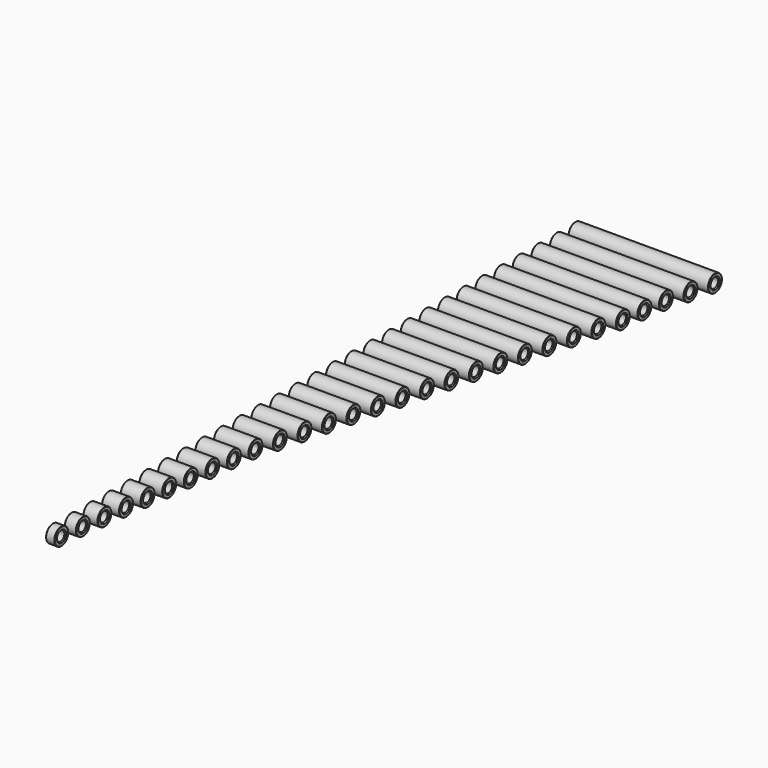
from build123d import *

# Parameters (mm, degrees)
F0_R        = 2.975
F0_R_2      = 1.65
F1_DEPTH    = 3
F2_DEPTH    = 4
F3_DEPTH    = 5
F4_DEPTH    = 6
F5_DEPTH    = 7
F6_DEPTH    = 8
F7_DEPTH    = 9
F8_DEPTH    = 10
F9_DEPTH    = 11
F10_DEPTH   = 12
F11_DEPTH   = 14
F12_DEPTH   = 16
F13_DEPTH   = 18
F14_DEPTH   = 20
F15_DEPTH   = 22
F16_DEPTH   = 24
F17_DEPTH   = 26
F18_DEPTH   = 28
F19_DEPTH   = 30
F20_DEPTH   = 32
F21_DEPTH   = 34
F22_DEPTH   = 36
F23_DEPTH   = 38
F24_DEPTH   = 40
F25_DEPTH   = 42
F26_DEPTH   = 43
F27_DEPTH   = 44
F28_DEPTH   = 46
F29_DEPTH   = 48
F30_SIZE    = 0.35
F30_2_SIZE  = 0.35
F30_3_SIZE  = 0.35
F30_4_SIZE  = 0.35
F30_5_SIZE  = 0.35
F30_6_SIZE  = 0.35
F30_7_SIZE  = 0.35
F30_8_SIZE  = 0.35
F30_9_SIZE  = 0.35
F30_10_SIZE = 0.35
F30_11_SIZE = 0.35
F30_12_SIZE = 0.35
F30_13_SIZE = 0.35
F30_14_SIZE = 0.35
F30_15_SIZE = 0.35
F30_16_SIZE = 0.35
F30_17_SIZE = 0.35
F30_18_SIZE = 0.35
F30_19_SIZE = 0.35
F30_20_SIZE = 0.35
F30_21_SIZE = 0.35
F30_22_SIZE = 0.35
F30_23_SIZE = 0.35
F30_24_SIZE = 0.35
F30_25_SIZE = 0.35
F30_26_SIZE = 0.35
F30_27_SIZE = 0.35
F30_28_SIZE = 0.35
F30_29_SIZE = 0.35
F31_SIZE    = 0.1
F31_2_SIZE  = 0.1
F31_3_SIZE  = 0.1
F31_4_SIZE  = 0.1
F31_5_SIZE  = 0.1
F31_6_SIZE  = 0.1
F31_7_SIZE  = 0.1
F31_8_SIZE  = 0.1
F31_9_SIZE  = 0.1
F31_10_SIZE = 0.1
F31_11_SIZE = 0.1
F31_12_SIZE = 0.1
F31_13_SIZE = 0.1
F31_14_SIZE = 0.1
F31_15_SIZE = 0.1
F31_16_SIZE = 0.1
F31_17_SIZE = 0.1
F31_18_SIZE = 0.1
F31_19_SIZE = 0.1
F31_20_SIZE = 0.1
F31_21_SIZE = 0.1
F31_22_SIZE = 0.1
F31_23_SIZE = 0.1
F31_24_SIZE = 0.1
F31_25_SIZE = 0.1
F31_26_SIZE = 0.1
F31_27_SIZE = 0.1
F31_28_SIZE = 0.1
F31_29_SIZE = 0.1


with BuildPart() as f1:
    # F0 (on Right) → F1 (new body)
    with BuildSketch(Plane.YZ):
        Circle(F0_R)
        Circle(F0_R_2, mode=Mode.SUBTRACT)
    extrude(amount=F1_DEPTH)

    # F30
    f30_edges = [f1.edges().sort_by_distance(p)[0] for p in [
        (3, -1.65, 0),
        (0, -1.65, 0),
    ]]
    chamfer(f30_edges, length=F30_SIZE)

    # F31#29
    f31_29_edges = [f1.edges().sort_by_distance(p)[0] for p in [
        (3, -2.975, 0),
    ]]
    chamfer(f31_29_edges, length=F31_29_SIZE)


with BuildPart() as f2:
    # F0 (on Right) → F2 (new body)
    with BuildSketch(Plane.YZ):
        Circle(F0_R)
        Circle(F0_R_2, mode=Mode.SUBTRACT)
    extrude(amount=F2_DEPTH)

    # F30#2
    f30_2_edges = [f2.edges().sort_by_distance(p)[0] for p in [
        (2, 1.65, 0),
        (0, -1.65, 0),
        (4, -1.65, 0),
    ]]
    chamfer(f30_2_edges, length=F30_2_SIZE)

    # F31#28
    f31_28_edges = [f2.edges().sort_by_distance(p)[0] for p in [
        (4, -2.975, 0),
    ]]
    chamfer(f31_28_edges, length=F31_28_SIZE)


with BuildPart() as f3:
    # F0 (on Right) → F3 (new body)
    with BuildSketch(Plane.YZ):
        Circle(F0_R)
        Circle(F0_R_2, mode=Mode.SUBTRACT)
    extrude(amount=F3_DEPTH)

    # F30#3
    f30_3_edges = [f3.edges().sort_by_distance(p)[0] for p in [
        (0, -1.65, 0),
        (5, -1.65, 0),
    ]]
    chamfer(f30_3_edges, length=F30_3_SIZE)

    # F31#27
    f31_27_edges = [f3.edges().sort_by_distance(p)[0] for p in [
        (5, -2.975, 0),
    ]]
    chamfer(f31_27_edges, length=F31_27_SIZE)


with BuildPart() as f4:
    # F0 (on Right) → F4 (new body)
    with BuildSketch(Plane.YZ):
        Circle(F0_R)
        Circle(F0_R_2, mode=Mode.SUBTRACT)
    extrude(amount=F4_DEPTH)

    # F30#4
    f30_4_edges = [f4.edges().sort_by_distance(p)[0] for p in [
        (0, -1.65, 0),
        (6, -1.65, 0),
    ]]
    chamfer(f30_4_edges, length=F30_4_SIZE)

    # F31#26
    f31_26_edges = [f4.edges().sort_by_distance(p)[0] for p in [
        (6, -2.975, 0),
    ]]
    chamfer(f31_26_edges, length=F31_26_SIZE)


with BuildPart() as f5:
    # F0 (on Right) → F5 (new body)
    with BuildSketch(Plane.YZ):
        Circle(F0_R)
        Circle(F0_R_2, mode=Mode.SUBTRACT)
    extrude(amount=F5_DEPTH)

    # F30#5
    f30_5_edges = [f5.edges().sort_by_distance(p)[0] for p in [
        (0, -1.65, 0),
        (7, -1.65, 0),
    ]]
    chamfer(f30_5_edges, length=F30_5_SIZE)

    # F31#25
    f31_25_edges = [f5.edges().sort_by_distance(p)[0] for p in [
        (7, -2.975, 0),
    ]]
    chamfer(f31_25_edges, length=F31_25_SIZE)


with BuildPart() as f6:
    # F0 (on Right) → F6 (new body)
    with BuildSketch(Plane.YZ):
        Circle(F0_R)
        Circle(F0_R_2, mode=Mode.SUBTRACT)
    extrude(amount=F6_DEPTH)

    # F30#6
    f30_6_edges = [f6.edges().sort_by_distance(p)[0] for p in [
        (0, -1.65, 0),
        (8, -1.65, 0),
    ]]
    chamfer(f30_6_edges, length=F30_6_SIZE)

    # F31#24
    f31_24_edges = [f6.edges().sort_by_distance(p)[0] for p in [
        (8, -2.975, 0),
    ]]
    chamfer(f31_24_edges, length=F31_24_SIZE)


with BuildPart() as f7:
    # F0 (on Right) → F7 (new body)
    with BuildSketch(Plane.YZ):
        Circle(F0_R)
        Circle(F0_R_2, mode=Mode.SUBTRACT)
    extrude(amount=F7_DEPTH)

    # F30#7
    f30_7_edges = [f7.edges().sort_by_distance(p)[0] for p in [
        (0, -1.65, 0),
        (9, -1.65, 0),
    ]]
    chamfer(f30_7_edges, length=F30_7_SIZE)

    # F31#23
    f31_23_edges = [f7.edges().sort_by_distance(p)[0] for p in [
        (9, -2.975, 0),
    ]]
    chamfer(f31_23_edges, length=F31_23_SIZE)


with BuildPart() as f8:
    # F0 (on Right) → F8 (new body)
    with BuildSketch(Plane.YZ):
        Circle(F0_R)
        Circle(F0_R_2, mode=Mode.SUBTRACT)
    extrude(amount=F8_DEPTH)

    # F30#8
    f30_8_edges = [f8.edges().sort_by_distance(p)[0] for p in [
        (0, -1.65, 0),
        (10, -1.65, 0),
    ]]
    chamfer(f30_8_edges, length=F30_8_SIZE)

    # F31#22
    f31_22_edges = [f8.edges().sort_by_distance(p)[0] for p in [
        (10, -2.975, 0),
    ]]
    chamfer(f31_22_edges, length=F31_22_SIZE)


with BuildPart() as f9:
    # F0 (on Right) → F9 (new body)
    with BuildSketch(Plane.YZ):
        Circle(F0_R)
        Circle(F0_R_2, mode=Mode.SUBTRACT)
    extrude(amount=F9_DEPTH)

    # F30#9
    f30_9_edges = [f9.edges().sort_by_distance(p)[0] for p in [
        (0, -1.65, 0),
        (11, -1.65, 0),
    ]]
    chamfer(f30_9_edges, length=F30_9_SIZE)

    # F31#21
    f31_21_edges = [f9.edges().sort_by_distance(p)[0] for p in [
        (11, -2.975, 0),
    ]]
    chamfer(f31_21_edges, length=F31_21_SIZE)


with BuildPart() as f10:
    # F0 (on Right) → F10 (new body)
    with BuildSketch(Plane.YZ):
        Circle(F0_R)
        Circle(F0_R_2, mode=Mode.SUBTRACT)
    extrude(amount=F10_DEPTH)

    # F30#10
    f30_10_edges = [f10.edges().sort_by_distance(p)[0] for p in [
        (0, -1.65, 0),
        (12, -1.65, 0),
    ]]
    chamfer(f30_10_edges, length=F30_10_SIZE)

    # F31#20
    f31_20_edges = [f10.edges().sort_by_distance(p)[0] for p in [
        (12, -2.975, 0),
    ]]
    chamfer(f31_20_edges, length=F31_20_SIZE)


with BuildPart() as f11:
    # F0 (on Right) → F11 (new body)
    with BuildSketch(Plane.YZ):
        Circle(F0_R)
        Circle(F0_R_2, mode=Mode.SUBTRACT)
    extrude(amount=F11_DEPTH)

    # F30#11
    f30_11_edges = [f11.edges().sort_by_distance(p)[0] for p in [
        (0, -1.65, 0),
        (14, -1.65, 0),
    ]]
    chamfer(f30_11_edges, length=F30_11_SIZE)

    # F31#19
    f31_19_edges = [f11.edges().sort_by_distance(p)[0] for p in [
        (14, -2.975, 0),
    ]]
    chamfer(f31_19_edges, length=F31_19_SIZE)


with BuildPart() as f12:
    # F0 (on Right) → F12 (new body)
    with BuildSketch(Plane.YZ):
        Circle(F0_R)
        Circle(F0_R_2, mode=Mode.SUBTRACT)
    extrude(amount=F12_DEPTH)

    # F30#12
    f30_12_edges = [f12.edges().sort_by_distance(p)[0] for p in [
        (0, -1.65, 0),
        (16, -1.65, 0),
    ]]
    chamfer(f30_12_edges, length=F30_12_SIZE)

    # F31#17
    f31_17_edges = [f12.edges().sort_by_distance(p)[0] for p in [
        (16, -2.975, 0),
    ]]
    chamfer(f31_17_edges, length=F31_17_SIZE)


with BuildPart() as f13:
    # F0 (on Right) → F13 (new body)
    with BuildSketch(Plane.YZ):
        Circle(F0_R)
        Circle(F0_R_2, mode=Mode.SUBTRACT)
    extrude(amount=F13_DEPTH)

    # F30#13
    f30_13_edges = [f13.edges().sort_by_distance(p)[0] for p in [
        (0, -1.65, 0),
        (18, -1.65, 0),
    ]]
    chamfer(f30_13_edges, length=F30_13_SIZE)

    # F31#18
    f31_18_edges = [f13.edges().sort_by_distance(p)[0] for p in [
        (18, -2.975, 0),
    ]]
    chamfer(f31_18_edges, length=F31_18_SIZE)


with BuildPart() as f14:
    # F0 (on Right) → F14 (new body)
    with BuildSketch(Plane.YZ):
        Circle(F0_R)
        Circle(F0_R_2, mode=Mode.SUBTRACT)
    extrude(amount=F14_DEPTH)

    # F30#14
    f30_14_edges = [f14.edges().sort_by_distance(p)[0] for p in [
        (0, -1.65, 0),
        (20, -1.65, 0),
    ]]
    chamfer(f30_14_edges, length=F30_14_SIZE)

    # F31#16
    f31_16_edges = [f14.edges().sort_by_distance(p)[0] for p in [
        (20, -2.975, 0),
    ]]
    chamfer(f31_16_edges, length=F31_16_SIZE)


with BuildPart() as f15:
    # F0 (on Right) → F15 (new body)
    with BuildSketch(Plane.YZ):
        Circle(F0_R)
        Circle(F0_R_2, mode=Mode.SUBTRACT)
    extrude(amount=F15_DEPTH)

    # F30#15
    f30_15_edges = [f15.edges().sort_by_distance(p)[0] for p in [
        (0, -1.65, 0),
        (22, -1.65, 0),
    ]]
    chamfer(f30_15_edges, length=F30_15_SIZE)

    # F31#15
    f31_15_edges = [f15.edges().sort_by_distance(p)[0] for p in [
        (22, -2.975, 0),
    ]]
    chamfer(f31_15_edges, length=F31_15_SIZE)


with BuildPart() as f16:
    # F0 (on Right) → F16 (new body)
    with BuildSketch(Plane.YZ):
        Circle(F0_R)
        Circle(F0_R_2, mode=Mode.SUBTRACT)
    extrude(amount=F16_DEPTH)

    # F30#16
    f30_16_edges = [f16.edges().sort_by_distance(p)[0] for p in [
        (0, -1.65, 0),
        (24, -1.65, 0),
    ]]
    chamfer(f30_16_edges, length=F30_16_SIZE)

    # F31#14
    f31_14_edges = [f16.edges().sort_by_distance(p)[0] for p in [
        (24, -2.975, 0),
    ]]
    chamfer(f31_14_edges, length=F31_14_SIZE)


with BuildPart() as f17:
    # F0 (on Right) → F17 (new body)
    with BuildSketch(Plane.YZ):
        Circle(F0_R)
        Circle(F0_R_2, mode=Mode.SUBTRACT)
    extrude(amount=F17_DEPTH)

    # F30#17
    f30_17_edges = [f17.edges().sort_by_distance(p)[0] for p in [
        (0, -1.65, 0),
        (26, -1.65, 0),
    ]]
    chamfer(f30_17_edges, length=F30_17_SIZE)

    # F31#13
    f31_13_edges = [f17.edges().sort_by_distance(p)[0] for p in [
        (26, -2.975, 0),
    ]]
    chamfer(f31_13_edges, length=F31_13_SIZE)


with BuildPart() as f18:
    # F0 (on Right) → F18 (new body)
    with BuildSketch(Plane.YZ):
        Circle(F0_R)
        Circle(F0_R_2, mode=Mode.SUBTRACT)
    extrude(amount=F18_DEPTH)

    # F30#18
    f30_18_edges = [f18.edges().sort_by_distance(p)[0] for p in [
        (0, -1.65, 0),
        (28, -1.65, 0),
    ]]
    chamfer(f30_18_edges, length=F30_18_SIZE)

    # F31#12
    f31_12_edges = [f18.edges().sort_by_distance(p)[0] for p in [
        (28, -2.975, 0),
    ]]
    chamfer(f31_12_edges, length=F31_12_SIZE)


with BuildPart() as f19:
    # F0 (on Right) → F19 (new body)
    with BuildSketch(Plane.YZ):
        Circle(F0_R)
        Circle(F0_R_2, mode=Mode.SUBTRACT)
    extrude(amount=F19_DEPTH)

    # F30#19
    f30_19_edges = [f19.edges().sort_by_distance(p)[0] for p in [
        (0, -1.65, 0),
        (30, -1.65, 0),
    ]]
    chamfer(f30_19_edges, length=F30_19_SIZE)

    # F31#11
    f31_11_edges = [f19.edges().sort_by_distance(p)[0] for p in [
        (30, -2.975, 0),
    ]]
    chamfer(f31_11_edges, length=F31_11_SIZE)


with BuildPart() as f20:
    # F0 (on Right) → F20 (new body)
    with BuildSketch(Plane.YZ):
        Circle(F0_R)
        Circle(F0_R_2, mode=Mode.SUBTRACT)
    extrude(amount=F20_DEPTH)

    # F30#20
    f30_20_edges = [f20.edges().sort_by_distance(p)[0] for p in [
        (0, -1.65, 0),
        (32, -1.65, 0),
    ]]
    chamfer(f30_20_edges, length=F30_20_SIZE)

    # F31#10
    f31_10_edges = [f20.edges().sort_by_distance(p)[0] for p in [
        (32, -2.975, 0),
    ]]
    chamfer(f31_10_edges, length=F31_10_SIZE)


with BuildPart() as f21:
    # F0 (on Right) → F21 (new body)
    with BuildSketch(Plane.YZ):
        Circle(F0_R)
        Circle(F0_R_2, mode=Mode.SUBTRACT)
    extrude(amount=F21_DEPTH)

    # F30#21
    f30_21_edges = [f21.edges().sort_by_distance(p)[0] for p in [
        (0, -1.65, 0),
        (34, -1.65, 0),
    ]]
    chamfer(f30_21_edges, length=F30_21_SIZE)

    # F31#9
    f31_9_edges = [f21.edges().sort_by_distance(p)[0] for p in [
        (34, -2.975, 0),
    ]]
    chamfer(f31_9_edges, length=F31_9_SIZE)


with BuildPart() as f22:
    # F0 (on Right) → F22 (new body)
    with BuildSketch(Plane.YZ):
        Circle(F0_R)
        Circle(F0_R_2, mode=Mode.SUBTRACT)
    extrude(amount=F22_DEPTH)

    # F30#22
    f30_22_edges = [f22.edges().sort_by_distance(p)[0] for p in [
        (0, -1.65, 0),
        (36, -1.65, 0),
    ]]
    chamfer(f30_22_edges, length=F30_22_SIZE)

    # F31#8
    f31_8_edges = [f22.edges().sort_by_distance(p)[0] for p in [
        (36, -2.975, 0),
    ]]
    chamfer(f31_8_edges, length=F31_8_SIZE)


with BuildPart() as f23:
    # F0 (on Right) → F23 (new body)
    with BuildSketch(Plane.YZ):
        Circle(F0_R)
        Circle(F0_R_2, mode=Mode.SUBTRACT)
    extrude(amount=F23_DEPTH)

    # F30#23
    f30_23_edges = [f23.edges().sort_by_distance(p)[0] for p in [
        (0, -1.65, 0),
        (38, -1.65, 0),
    ]]
    chamfer(f30_23_edges, length=F30_23_SIZE)

    # F31#7
    f31_7_edges = [f23.edges().sort_by_distance(p)[0] for p in [
        (38, -2.975, 0),
    ]]
    chamfer(f31_7_edges, length=F31_7_SIZE)


with BuildPart() as f24:
    # F0 (on Right) → F24 (new body)
    with BuildSketch(Plane.YZ):
        Circle(F0_R)
        Circle(F0_R_2, mode=Mode.SUBTRACT)
    extrude(amount=F24_DEPTH)

    # F30#24
    f30_24_edges = [f24.edges().sort_by_distance(p)[0] for p in [
        (0, -1.65, 0),
        (20, 1.65, 0),
        (40, -1.65, 0),
    ]]
    chamfer(f30_24_edges, length=F30_24_SIZE)

    # F31#6
    f31_6_edges = [f24.edges().sort_by_distance(p)[0] for p in [
        (40, -2.975, 0),
        (20, 2.975, 0),
        (0, -2.975, 0),
    ]]
    chamfer(f31_6_edges, length=F31_6_SIZE)


with BuildPart() as f25:
    # F0 (on Right) → F25 (new body)
    with BuildSketch(Plane.YZ):
        Circle(F0_R)
        Circle(F0_R_2, mode=Mode.SUBTRACT)
    extrude(amount=F25_DEPTH)

    # F30#25
    f30_25_edges = [f25.edges().sort_by_distance(p)[0] for p in [
        (0, -1.65, 0),
        (42, -1.65, 0),
    ]]
    chamfer(f30_25_edges, length=F30_25_SIZE)

    # F31#5
    f31_5_edges = [f25.edges().sort_by_distance(p)[0] for p in [
        (42, -2.975, 0),
    ]]
    chamfer(f31_5_edges, length=F31_5_SIZE)


with BuildPart() as f26:
    # F0 (on Right) → F26 (new body)
    with BuildSketch(Plane.YZ):
        Circle(F0_R)
        Circle(F0_R_2, mode=Mode.SUBTRACT)
    extrude(amount=F26_DEPTH)

    # F30#26
    f30_26_edges = [f26.edges().sort_by_distance(p)[0] for p in [
        (0, -1.65, 0),
        (43, -1.65, 0),
    ]]
    chamfer(f30_26_edges, length=F30_26_SIZE)

    # F31#4
    f31_4_edges = [f26.edges().sort_by_distance(p)[0] for p in [
        (43, -2.975, 0),
    ]]
    chamfer(f31_4_edges, length=F31_4_SIZE)


with BuildPart() as f27:
    # F0 (on Right) → F27 (new body)
    with BuildSketch(Plane.YZ):
        Circle(F0_R)
        Circle(F0_R_2, mode=Mode.SUBTRACT)
    extrude(amount=F27_DEPTH)

    # F30#27
    f30_27_edges = [f27.edges().sort_by_distance(p)[0] for p in [
        (0, -1.65, 0),
        (44, -1.65, 0),
    ]]
    chamfer(f30_27_edges, length=F30_27_SIZE)

    # F31#3
    f31_3_edges = [f27.edges().sort_by_distance(p)[0] for p in [
        (44, -2.975, 0),
    ]]
    chamfer(f31_3_edges, length=F31_3_SIZE)


with BuildPart() as f28:
    # F0 (on Right) → F28 (new body)
    with BuildSketch(Plane.YZ):
        Circle(F0_R)
        Circle(F0_R_2, mode=Mode.SUBTRACT)
    extrude(amount=F28_DEPTH)

    # F30#28
    f30_28_edges = [f28.edges().sort_by_distance(p)[0] for p in [
        (0, -1.65, 0),
        (46, -1.65, 0),
    ]]
    chamfer(f30_28_edges, length=F30_28_SIZE)

    # F31#2
    f31_2_edges = [f28.edges().sort_by_distance(p)[0] for p in [
        (46, -2.975, 0),
    ]]
    chamfer(f31_2_edges, length=F31_2_SIZE)


with BuildPart() as f29:
    # F0 (on Right) → F29 (new body)
    with BuildSketch(Plane.YZ):
        Circle(F0_R)
        Circle(F0_R_2, mode=Mode.SUBTRACT)
    extrude(amount=F29_DEPTH)

    # F30#29
    f30_29_edges = [f29.edges().sort_by_distance(p)[0] for p in [
        (0, -1.65, 0),
        (48, -1.65, 0),
    ]]
    chamfer(f30_29_edges, length=F30_29_SIZE)

    # F31
    f31_edges = [f29.edges().sort_by_distance(p)[0] for p in [
        (48, -2.975, 0),
    ]]
    chamfer(f31_edges, length=F31_SIZE)


with BuildPart() as f33_tool:
    # F32 (on Front) → F33 (revolve)
    with BuildSketch(Plane.XZ):
        Polygon((0, 2.975), (0, 2.875), (0.1, 2.975), align=None)
    revolve(axis=Axis((-1.3422839111, 0, 0), (-1, 0, 0)))


with BuildPart() as f1_1:
    add(f1.part)

    # F33: cut by f33_tool
    add(f33_tool.part, mode=Mode.SUBTRACT)


with BuildPart() as f2_1:
    add(f2.part)

    # F33: cut by f33_tool
    add(f33_tool.part, mode=Mode.SUBTRACT)


with BuildPart() as f3_1:
    add(f3.part)

    # F33: cut by f33_tool
    add(f33_tool.part, mode=Mode.SUBTRACT)


with BuildPart() as f4_1:
    add(f4.part)

    # F33: cut by f33_tool
    add(f33_tool.part, mode=Mode.SUBTRACT)


with BuildPart() as f5_1:
    add(f5.part)

    # F33: cut by f33_tool
    add(f33_tool.part, mode=Mode.SUBTRACT)


with BuildPart() as f6_1:
    add(f6.part)

    # F33: cut by f33_tool
    add(f33_tool.part, mode=Mode.SUBTRACT)


with BuildPart() as f7_1:
    add(f7.part)

    # F33: cut by f33_tool
    add(f33_tool.part, mode=Mode.SUBTRACT)


with BuildPart() as f8_1:
    add(f8.part)

    # F33: cut by f33_tool
    add(f33_tool.part, mode=Mode.SUBTRACT)


with BuildPart() as f9_1:
    add(f9.part)

    # F33: cut by f33_tool
    add(f33_tool.part, mode=Mode.SUBTRACT)


with BuildPart() as f10_1:
    add(f10.part)

    # F33: cut by f33_tool
    add(f33_tool.part, mode=Mode.SUBTRACT)


with BuildPart() as f11_1:
    add(f11.part)

    # F33: cut by f33_tool
    add(f33_tool.part, mode=Mode.SUBTRACT)


with BuildPart() as f12_1:
    add(f12.part)

    # F33: cut by f33_tool
    add(f33_tool.part, mode=Mode.SUBTRACT)


with BuildPart() as f13_1:
    add(f13.part)

    # F33: cut by f33_tool
    add(f33_tool.part, mode=Mode.SUBTRACT)


with BuildPart() as f14_1:
    add(f14.part)

    # F33: cut by f33_tool
    add(f33_tool.part, mode=Mode.SUBTRACT)


with BuildPart() as f15_1:
    add(f15.part)

    # F33: cut by f33_tool
    add(f33_tool.part, mode=Mode.SUBTRACT)


with BuildPart() as f16_1:
    add(f16.part)

    # F33: cut by f33_tool
    add(f33_tool.part, mode=Mode.SUBTRACT)


with BuildPart() as f17_1:
    add(f17.part)

    # F33: cut by f33_tool
    add(f33_tool.part, mode=Mode.SUBTRACT)


with BuildPart() as f18_1:
    add(f18.part)

    # F33: cut by f33_tool
    add(f33_tool.part, mode=Mode.SUBTRACT)


with BuildPart() as f19_1:
    add(f19.part)

    # F33: cut by f33_tool
    add(f33_tool.part, mode=Mode.SUBTRACT)


with BuildPart() as f20_1:
    add(f20.part)

    # F33: cut by f33_tool
    add(f33_tool.part, mode=Mode.SUBTRACT)


with BuildPart() as f21_1:
    add(f21.part)

    # F33: cut by f33_tool
    add(f33_tool.part, mode=Mode.SUBTRACT)


with BuildPart() as f22_1:
    add(f22.part)

    # F33: cut by f33_tool
    add(f33_tool.part, mode=Mode.SUBTRACT)


with BuildPart() as f23_1:
    add(f23.part)

    # F33: cut by f33_tool
    add(f33_tool.part, mode=Mode.SUBTRACT)


with BuildPart() as f25_1:
    add(f25.part)

    # F33: cut by f33_tool
    add(f33_tool.part, mode=Mode.SUBTRACT)


with BuildPart() as f26_1:
    add(f26.part)

    # F33: cut by f33_tool
    add(f33_tool.part, mode=Mode.SUBTRACT)


with BuildPart() as f27_1:
    add(f27.part)

    # F33: cut by f33_tool
    add(f33_tool.part, mode=Mode.SUBTRACT)


with BuildPart() as f28_1:
    add(f28.part)

    # F33: cut by f33_tool
    add(f33_tool.part, mode=Mode.SUBTRACT)


with BuildPart() as f29_1:
    add(f29.part)

    # F33: cut by f33_tool
    add(f33_tool.part, mode=Mode.SUBTRACT)


with BuildPart() as f2_2:
    # F34: moved
    add(f2_1.part.moved(Location((0, 8, 0))))


with BuildPart() as f3_2:
    # F35: moved
    add(f3_1.part.moved(Location((0, 16, 0))))


with BuildPart() as f4_2:
    # F36: moved
    add(f4_1.part.moved(Location((0, 24, 0))))


with BuildPart() as f5_2:
    # F37: moved
    add(f5_1.part.moved(Location((0, 32, 0))))


with BuildPart() as f6_2:
    # F38: moved
    add(f6_1.part.moved(Location((0, 40, 0))))


with BuildPart() as f7_2:
    # F39: moved
    add(f7_1.part.moved(Location((0, 48, 0))))


with BuildPart() as f8_2:
    # F40: moved
    add(f8_1.part.moved(Location((0, 56, 0))))


with BuildPart() as f9_2:
    # F41: moved
    add(f9_1.part.moved(Location((0, 64, 0))))


with BuildPart() as f10_2:
    # F42: moved
    add(f10_1.part.moved(Location((0, 72, 0))))


with BuildPart() as f11_2:
    # F43: moved
    add(f11_1.part.moved(Location((0, 80, 0))))


with BuildPart() as f12_2:
    # F44: moved
    add(f12_1.part.moved(Location((0, 88, 0))))


with BuildPart() as f13_2:
    # F45: moved
    add(f13_1.part.moved(Location((0, 96, 0))))


with BuildPart() as f14_2:
    # F46: moved
    add(f14_1.part.moved(Location((0, 104, 0))))


with BuildPart() as f15_2:
    # F47: moved
    add(f15_1.part.moved(Location((0, 112, 0))))


with BuildPart() as f16_2:
    # F48: moved
    add(f16_1.part.moved(Location((0, 120, 0))))


with BuildPart() as f17_2:
    # F49: moved
    add(f17_1.part.moved(Location((0, 128, 0))))


with BuildPart() as f18_2:
    # F50: moved
    add(f18_1.part.moved(Location((0, 136, 0))))


with BuildPart() as f19_2:
    # F51: moved
    add(f19_1.part.moved(Location((0, 144, 0))))


with BuildPart() as f20_2:
    # F52: moved
    add(f20_1.part.moved(Location((0, 152, 0))))


with BuildPart() as f21_2:
    # F53: moved
    add(f21_1.part.moved(Location((0, 160, 0))))


with BuildPart() as f22_2:
    # F54: moved
    add(f22_1.part.moved(Location((0, 168, 0))))


with BuildPart() as f23_2:
    # F55: moved
    add(f23_1.part.moved(Location((0, 176, 0))))


with BuildPart() as f24_1:
    # F56: moved
    add(f24.part.moved(Location((0, 184, 0))))


with BuildPart() as f25_2:
    # F57: moved
    add(f25_1.part.moved(Location((0, 192, 0))))


with BuildPart() as f26_2:
    # F58: moved
    add(f26_1.part.moved(Location((0, 200, 0))))


with BuildPart() as f27_2:
    # F59: moved
    add(f27_1.part.moved(Location((0, 208, 0))))


with BuildPart() as f28_2:
    # F60: moved
    add(f28_1.part.moved(Location((0, 216, 0))))


with BuildPart() as f29_2:
    # F61: moved
    add(f29_1.part.moved(Location((0, 224, 0))))


solid = Compound([f1_1.part, f2_2.part, f3_2.part, f4_2.part, f5_2.part, f6_2.part, f7_2.part, f8_2.part, f9_2.part, f10_2.part, f11_2.part, f12_2.part, f13_2.part, f14_2.part, f15_2.part, f16_2.part, f17_2.part, f18_2.part, f19_2.part, f20_2.part, f21_2.part, f22_2.part, f23_2.part, f24_1.part, f25_2.part, f26_2.part, f27_2.part, f28_2.part, f29_2.part])
